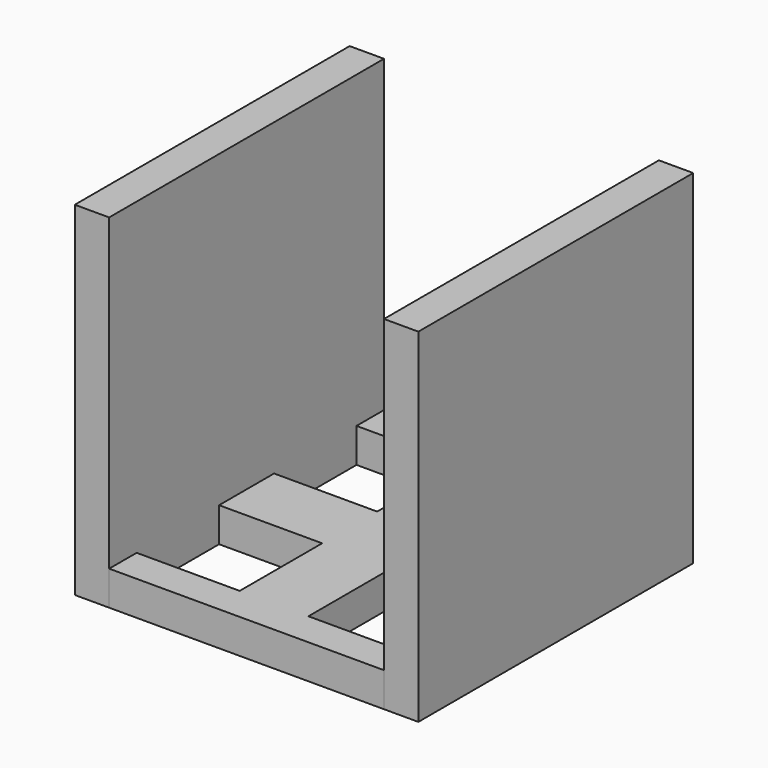
from build123d import *

# Parameters (mm, degrees)
F1_W     = 1.6
F1_H     = 1.6
F2_DEPTH = 16
F1_W_2   = 3.2
F1_H_2   = 4.8
F1_W_3   = 4.8
F1_H_3   = 3.2
F3_DEPTH = 1.6


with BuildPart() as f2:
    # F1 (on Top) → F2 (new body)
    with BuildSketch(Plane.XY):
        Polygon((-6.4, 1.6), (-6.4, 6.4), (-8, 6.4), (-8, -6.4), (-6.4, -6.4), (-6.4, -1.6), align=None)
        with Locations((-7.2, -7.2)):
            Rectangle(F1_W, F1_H)
        with Locations((-7.2, 7.2)):
            Rectangle(F1_W, F1_H)
    extrude(amount=F2_DEPTH)


with BuildPart() as f2b:
    # F1 (on Top) → F2, piece 2 (new body)
    with BuildSketch(Plane.XY):
        with Locations((7.2, 7.2)):
            Rectangle(F1_W, F1_H)
        Polygon((8, -6.4), (8, 6.4), (6.4, 6.4), (6.4, 1.6), (6.4, -1.6), (6.4, -6.4), align=None)
        with Locations((7.2, -7.2)):
            Rectangle(F1_W, F1_H)
    extrude(amount=F2_DEPTH)


with BuildPart() as f3:
    # F1 (on Top) → F3 (new body)
    with BuildSketch(Plane.XY):
        Polygon((6.4, 6.4), (6.4, 8), (-6.4, 8), (-6.4, 6.4), (-1.6, 6.4), (1.6, 6.4), align=None)
        Polygon((6.4, -8), (6.4, -6.4), (1.6, -6.4), (-1.6, -6.4), (-6.4, -6.4), (-6.4, -8), align=None)
        with Locations((0, 4)):
            Rectangle(F1_W_2, F1_H_2)
        with Locations((-4, 0)):
            Rectangle(F1_W_3, F1_H_3)
        Rectangle(F1_W_2, F1_H_3)
        with Locations((4, 0)):
            Rectangle(F1_W_3, F1_H_3)
        with Locations((0, -4)):
            Rectangle(F1_W_2, F1_H_2)
    extrude(amount=F3_DEPTH)


solid = Compound([f2.part, f2b.part, f3.part])
